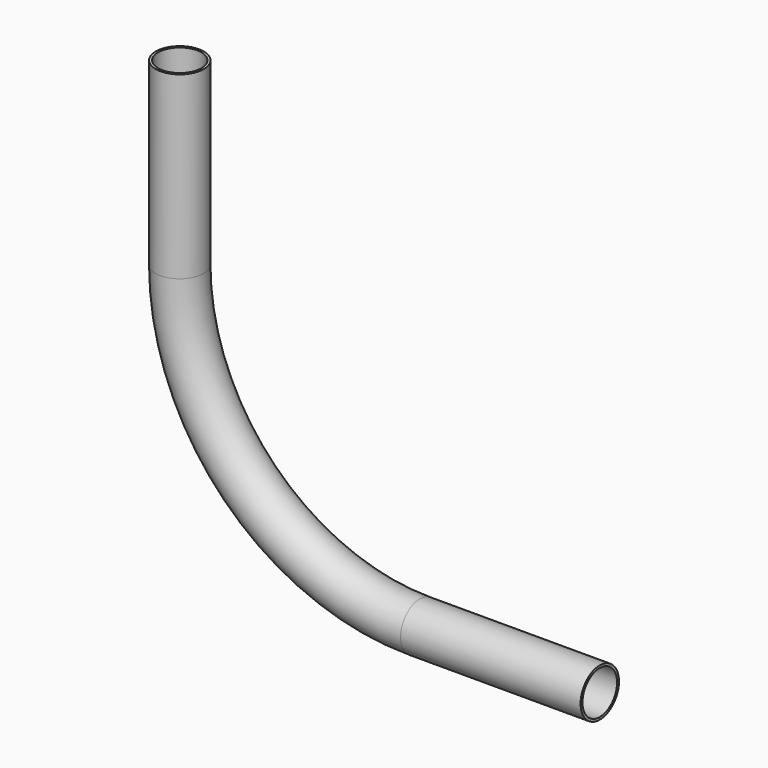
from build123d import *

# Parameters (mm, degrees)
F2_R   = 20
F2_R_2 = 18


with BuildPart() as f3:
    # F3: sweep along a path in F0
    with BuildLine(Plane.XZ) as f3_path:
        Line((0, 350), (0, 200))
        ThreePointArc((0, 200), (58.578644, 58.578644), (200, 0))
        Line((200, 0), (350, 0))
    # F2 (on plane+point) → F3 (sweep)
    with BuildSketch(Plane.XY.offset(350)):
        Circle(F2_R)
        Circle(F2_R_2, mode=Mode.SUBTRACT)
    sweep(path=f3_path.line)


solid = f3.part
